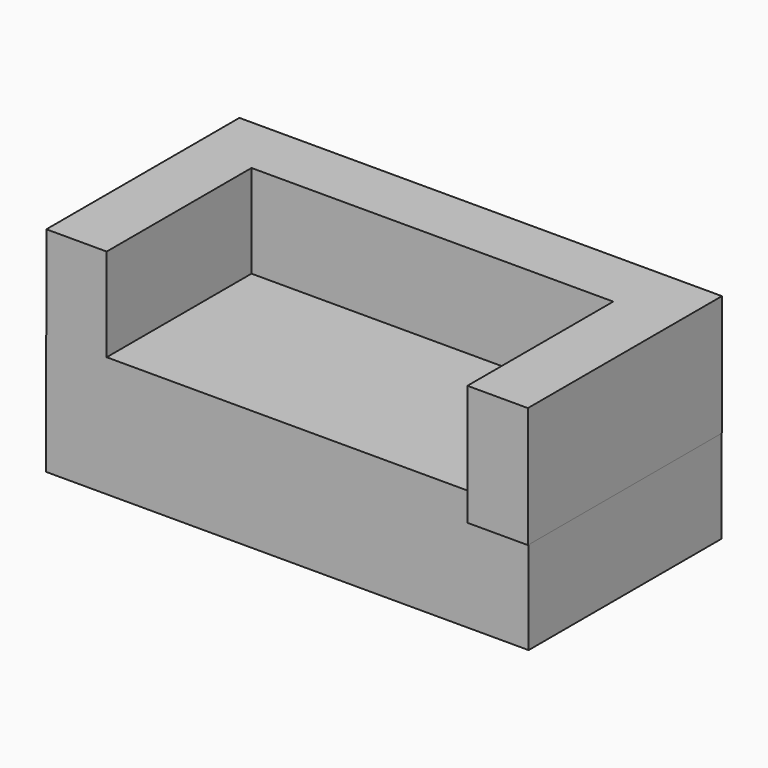
from build123d import *

# Parameters (mm, degrees)
F0_W     = 203.2
F0_H     = 50.8
F1_DEPTH = 101.6
F2_W     = 25.4
F2_H     = 25.3674704581
F2_W_2   = 152.3310508887
F2_H_2   = 76.2325295419
F2_W_3   = 0.2561658621
F2_W_4   = 25.2127832492
F2_H_3   = 0.0325295419
F3_DEPTH = 50.8


with BuildPart() as f1:
    # F0 (on Front) → F1 (new body)
    with BuildSketch(Plane.XZ):
        with Locations((49.0080691226, -13.7808406726)):
            Rectangle(F0_W, F0_H)
    extrude(amount=F1_DEPTH)

    # F2 (on Top) → F3 (join)
    with BuildSketch(Plane.XY):
        with Locations((-39.7728137652, -12.6837352291)):
            Rectangle(F2_W, F2_H)
        with Locations((49.0927116791, -12.6837352291)):
            Rectangle(F2_W_2, F2_H)
        with Locations((-39.7728137652, -63.4837352291)):
            Rectangle(F2_W, F2_H_2)
        with Locations((125.3863200545, -12.6837352291)):
            Rectangle(F2_W_3, F2_H)
        Polygon((125.5144029856, -25.3674704581), (125.2582371235, -25.3674704581), (125.2582371235, -102.1268442273), (150.7271862348, -102.1268442273), (150.7271862348, -25.4), (125.5144029856, -25.4), align=None)
        with Locations((138.1207946102, -12.6837352291)):
            Rectangle(F2_W_4, F2_H)
        with Locations((138.1207946102, -25.3837352291)):
            Rectangle(F2_W_4, F2_H_3)
    extrude(amount=F3_DEPTH)


solid = f1.part
